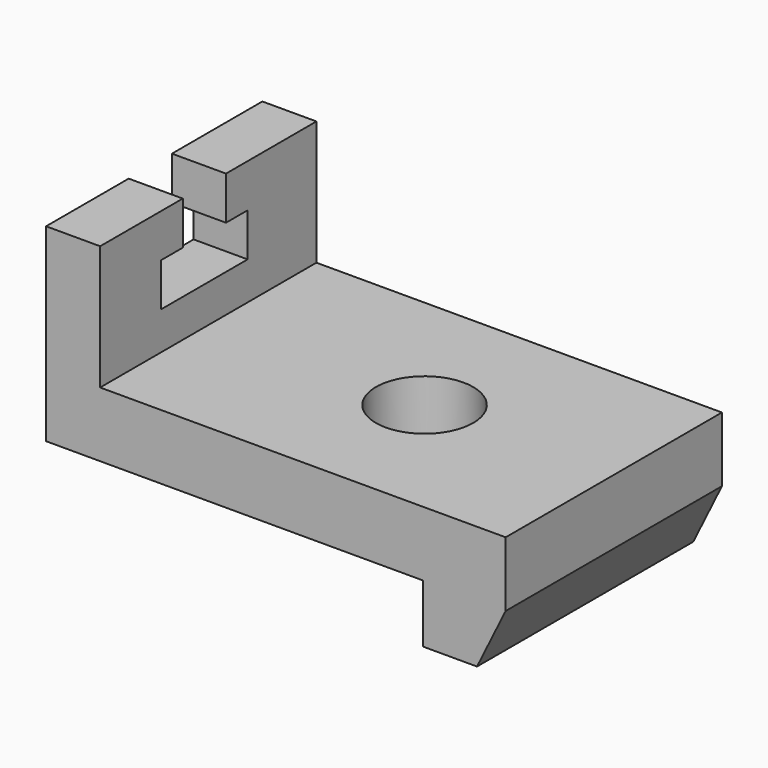
from build123d import *

# Parameters (mm, degrees)
F1_DEPTH = 50
F3_DEPTH = 25
F4_R     = 9
F5_DEPTH = 25


with BuildPart() as f1:
    # F0 (on Front) → F1 (new body)
    with BuildSketch(Plane.XZ):
        Polygon((48.981464, 6), (-26.018536, 6), (-26.018536, 29), (-36.018536, 29), (-36.018536, -6), (33.685692, -6), (33.685692, -16.768231), (43.685692, -16.768231), (48.981464, -6), align=None)
    extrude(amount=F1_DEPTH)

    # F2 (on face) → F3 (cut)
    with BuildSketch(Plane.YZ.offset(-26.018536)):
        Polygon((-20.902064, 29), (-30.902064, 29), (-30.902064, 21), (-35.902064, 21), (-35.902064, 13), (-15.902064, 13), (-15.902064, 21), (-20.902064, 21), align=None)
    extrude(amount=-F3_DEPTH, mode=Mode.SUBTRACT)

    # F4 (on face) → F5 (cut)
    with BuildSketch(Plane.XY.offset(6)):
        with Locations((13.981464, -25)):
            Circle(F4_R)
    extrude(amount=-F5_DEPTH, mode=Mode.SUBTRACT)


solid = f1.part
